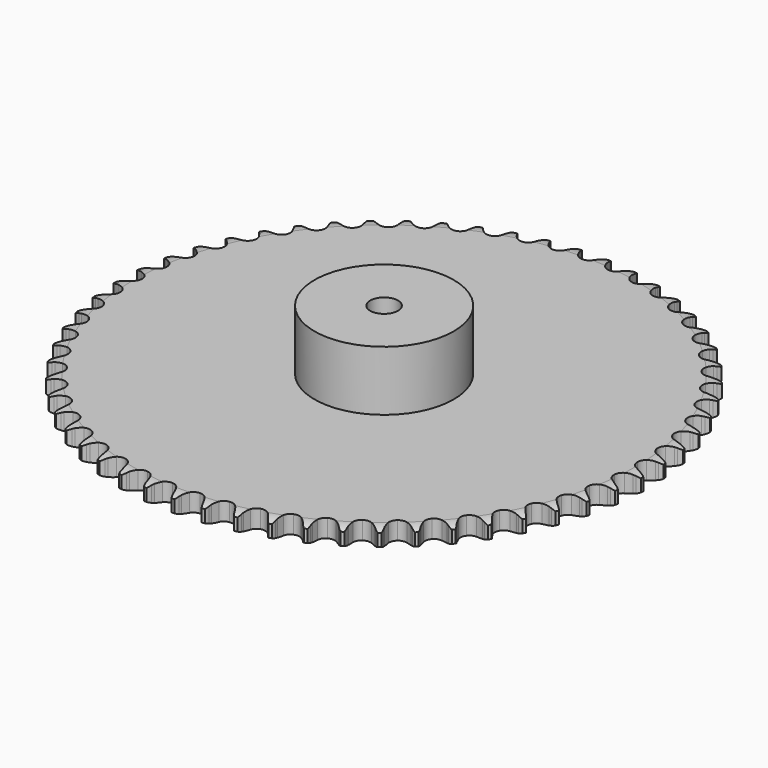
from build123d import *

# Parameters (mm, degrees)
PAD_DEPTH         = 16.2
SKETCH001_R       = 62.5
PAD001_DEPTH      = 70
SKETCH002_R       = 12.5
POCKET_DEPTH      = 0.0010001
POCKET_DEPTH_BACK = 70.001


with BuildPart() as part:
    # Sprocket → Pad (new body)
    with BuildSketch(Plane.XY):
        with BuildLine():
            ThreePointArc((-13.1521335506, 238.3862071548), (-11.3414048757, 236.1150787905), (-10.0888809211, 233.4944021366))
            Line((-10.0888809211, 233.4944021366), (-9.3178234902, 231.2595357237))
            ThreePointArc((-9.3178234902, 231.2595357237), (-8.1022430269, 228.4355614612), (-6.4822046209, 225.8225283461))
            ThreePointArc((-6.4822046209, 225.8225283461), (-3.6367234664, 223.3956462483), (0, 222.5234294484))
            ThreePointArc((0, 222.5234294484), (3.6367234664, 223.3956462483), (6.4822046209, 225.8225283461))
            ThreePointArc((6.4822046209, 225.8225283461), (8.1022430269, 228.4355614612), (9.3178234902, 231.2595357237))
            Line((9.3178234902, 231.2595357237), (10.0888809211, 233.4944021366))
            ThreePointArc((10.0888809211, 233.4944021366), (11.3414048757, 236.1150787905), (13.1521335506, 238.3862071548))
            ThreePointArc((13.1521335506, 238.3862071548), (14.7020295377, 235.9296679611), (15.6586555438, 233.1871091075))
            Line((15.6586555438, 233.1871091075), (16.1791795001, 230.8809841638))
            ThreePointArc((16.1791795001, 230.8809841638), (17.0767218286, 227.9404256681), (18.3994725744, 225.1650343511))
            ThreePointArc((18.3994725744, 225.1650343511), (20.9607066035, 222.4398554643), (24.4794066031, 221.1728629508))
            ThreePointArc((24.4794066031, 221.1728629508), (28.1900086397, 221.6397165067), (31.2851966331, 223.7388427542))
            Line((31.2851966331, 223.7388427542), (34.7017207256, 228.8309097924))
            ThreePointArc((34.7017207256, 228.8309097924), (35.1773428167, 229.913596992), (35.7139520384, 230.9673894236))
            ThreePointArc((35.7139520384, 230.9673894236), (37.2471699975, 233.4343724132), (39.2967515667, 235.4925215265))
            ThreePointArc((39.2967515667, 235.4925215265), (40.5670012285, 232.8803905616), (41.2161171423, 230.0492404575))
            Line((41.2161171423, 230.0492404575), (41.4797891682, 227.6998502158))
            ThreePointArc((41.4797891682, 227.6998502158), (42.0483984138, 224.6784018837), (43.0578050972, 221.7743418558))
            ThreePointArc((43.0578050972, 221.7743418558), (45.3037020892, 218.7839461599), (48.6616663708, 217.1375575056))
            ThreePointArc((48.6616663708, 217.1375575056), (52.4011052954, 217.1933808478), (55.7084287382, 218.9392706959))
            Line((55.7084287382, 218.9392706959), (59.6643860796, 223.6245865988))
            ThreePointArc((59.6643860796, 223.6245865988), (60.2562259595, 224.6483802803), (60.9055041574, 225.6367454797))
            ThreePointArc((60.9055041574, 225.6367454797), (62.7008049318, 227.9200889735), (64.9643602516, 229.7402756934))
            ThreePointArc((64.9643602516, 229.7402756934), (65.9395444779, 227.0042606887), (66.2732709114, 224.1188856613))
            Line((66.2732709114, 224.1188856613), (66.2768903859, 221.7547485366))
            ThreePointArc((66.2768903859, 221.7547485366), (66.5096644026, 218.6890866578), (67.1934741938, 215.6916092738))
            ThreePointArc((67.1934741938, 215.6916092738), (69.0967720017, 212.4722961217), (72.2532394275, 210.4664962547))
            ThreePointArc((72.2532394275, 210.4664962547), (75.9761235173, 210.1106117633), (79.4554359831, 211.4820724745))
            Line((79.4554359831, 211.4820724745), (83.9028066102, 215.7037638538))
            ThreePointArc((83.9028066102, 215.7037638538), (84.6036801443, 216.6562365488), (85.3577459606, 217.5671771014))
            ThreePointArc((85.3577459606, 217.5671771014), (87.3933370311, 219.6391644023), (89.8433896062, 221.1992941279))
            ThreePointArc((89.8433896062, 221.1992941279), (90.5116709814, 218.3726065992), (90.5259569478, 215.4680311927))
            Line((90.5259569478, 215.4680311927), (90.2694799352, 213.1178446071))
            ThreePointArc((90.2694799352, 213.1178446071), (90.1635931619, 210.045182164), (90.5135055363, 206.9906727388))
            ThreePointArc((90.5135055363, 206.9906727388), (92.051100703, 203.5815202312), (94.9677560344, 201.2406568446))
            ThreePointArc((94.9677560344, 201.2406568446), (98.6288945196, 200.4773844755), (102.2379618683, 201.4577683743))
            Line((102.2379618683, 201.4577683743), (107.1227607262, 205.1645896156))
            ThreePointArc((107.1227607262, 205.1645896156), (107.9241602595, 206.0341795959), (108.7738603566, 206.8566379174))
            ThreePointArc((108.7738603566, 206.8566379174), (111.0250324049, 208.6921179064), (113.6318419159, 209.9732527761))
            ThreePointArc((113.6318419159, 209.9732527761), (113.9851084096, 207.090204881), (113.6797804966, 204.2016867061))
            Line((113.6797804966, 204.2016867061), (113.1663202805, 201.8939787411))
            ThreePointArc((113.1663202805, 201.8939787411), (112.7230580391, 198.8516136934), (112.7348255345, 195.7771498338))
            ThreePointArc((112.7348255345, 195.7771498338), (113.8880537375, 192.2195404639), (116.5294927298, 189.5720284684))
            ThreePointArc((116.5294927298, 189.5720284684), (120.0844443486, 188.4106333139), (123.7794573917, 188.9880398681))
            Line((123.7794573917, 188.9880398681), (129.0423896394, 192.1349951828))
            ThreePointArc((129.0423896394, 192.1349951828), (129.934587267, 192.9111468039), (130.8696074368, 193.6351393644))
            ThreePointArc((130.8696074368, 193.6351393644), (133.3090342838, 195.211831801), (136.0409575946, 196.198420573))
            ThreePointArc((136.0409575946, 196.198420573), (136.0749210299, 193.2940086073), (135.4536855048, 190.4566103618))
            Line((135.4536855048, 190.4566103618), (134.6894747967, 188.2193934661))
            ThreePointArc((134.6894747967, 188.2193934661), (133.9142176904, 185.2442560042), (133.5876974654, 182.1871575366))
            ThreePointArc((133.5876974654, 182.1871575366), (134.3425600765, 178.5242758629), (136.6767192385, 175.6022524675))
            ThreePointArc((136.6767192385, 175.6022524675), (140.082331694, 174.0568322918), (143.8184379784, 174.2242525678))
            Line((143.8184379784, 174.2242525678), (149.3956187477, 176.7731421815))
            ThreePointArc((149.3956187477, 176.7731421815), (150.3677843991, 177.4464340142), (151.3767747635, 178.0631725247))
            ThreePointArc((151.3767747635, 178.0631725247), (153.9748450717, 179.3619384984), (156.7987203341, 180.0420053215))
            ThreePointArc((156.7987203341, 180.0420053215), (156.512968441, 177.1514849122), (155.5833662615, 174.3996487671))
            Line((155.5833662615, 174.3996487671), (154.5776815441, 172.2600797231))
            ThreePointArc((154.5776815441, 172.2600797231), (153.4798401439, 169.3882839856), (152.8189957116, 166.3856599441))
            ThreePointArc((152.8189957116, 166.3856599441), (153.1663297214, 162.6619683883), (155.1648755228, 159.5009029989))
            ThreePointArc((155.1648755228, 159.5009029989), (158.3798092932, 157.5902171092), (162.1116575497, 157.3456188518))
            Line((162.1116575497, 157.3456188518), (167.9353874212, 159.2655026973))
            ThreePointArc((167.9353874212, 159.2655026973), (168.9757203223, 159.8277618908), (170.0464331049, 160.3297599813))
            ThreePointArc((170.0464331049, 160.3297599813), (172.7716098203, 161.3348342326), (175.6531590139, 161.7001240168))
            ThreePointArc((175.6531590139, 161.7001240168), (175.0511604332, 158.8585821659), (173.8244757106, 156.2257116844))
            Line((173.8244757106, 156.2257116844), (172.589524634, 154.209761962))
            ThreePointArc((172.589524634, 154.209761962), (171.1824252473, 151.4761676588), (170.1952783641, 148.5644658319))
            ThreePointArc((170.1952783641, 148.5644658319), (170.1308676081, 144.8251649652), (171.7695404102, 141.4634286335))
            ThreePointArc((171.7695404102, 141.4634286335), (174.7547705545, 139.2106701683), (178.4370612006, 138.5570224689))
            Line((178.4370612006, 138.5570224689), (184.4366479827, 139.8245957572))
            ThreePointArc((184.4366479827, 139.8245957572), (185.5325199013, 140.2689972465), (186.6519580994, 140.6501613402))
            ThreePointArc((186.6519580994, 140.6501613402), (189.4711612684, 141.3493436292), (192.3754062893, 141.3954222513))
            ThreePointArc((192.3754062893, 141.3954222513), (191.4644684684, 138.6373514277), (189.9555914934, 136.1554060908))
            Line((189.9555914934, 136.1554060908), (188.5063646908, 134.2875465887))
            ThreePointArc((188.5063646908, 134.2875465887), (186.8070875982, 131.7253358517), (185.5056208899, 128.9399003552))
            ThreePointArc((185.5056208899, 128.9399003552), (185.0302472274, 125.2303802248), (186.2891557622, 121.7087798759))
            ThreePointArc((186.2891557622, 121.7087798759), (189.0084456304, 119.1412942713), (192.5964806458, 118.0865315276))
            Line((192.5964806458, 118.0865315276), (198.6990974821, 118.686407636))
            ThreePointArc((198.6990974821, 118.686407636), (199.8372060177, 119.007556989), (200.991781168, 119.2632602702))
            ThreePointArc((200.991781168, 119.2632602702), (203.870789483, 119.648063471), (206.762476731, 119.374371599))
            ThreePointArc((206.762476731, 119.374371599), (205.553657221, 116.7332510464), (203.7809037161, 114.4323583083))
            Line((203.7809037161, 114.4323583083), (202.1349928377, 112.7352623106))
            ThreePointArc((202.1349928377, 112.7352623106), (200.1641649611, 110.3755369073), (198.5641764706, 107.7501791549))
            ThreePointArc((198.5641764706, 107.7501791549), (197.6836102939, 104.1154683101), (198.5474731172, 100.4767514017))
            ThreePointArc((198.5474731172, 100.4767514017), (200.967814214, 97.625704455), (204.418039714, 96.1826300578))
            Line((204.418039714, 96.1826300578), (210.5496091031, 96.1075273029))
            ThreePointArc((210.5496091031, 96.1075273029), (211.7161391597, 96.3015262016), (212.8918362839, 96.4286647788))
            ThreePointArc((212.8918362839, 96.4286647788), (215.795702484, 96.4944179018), (218.6397307931, 95.9042777843))
            ThreePointArc((218.6397307931, 95.9042777843), (217.1477030253, 93.4121671283), (215.1325918167, 91.3202567101))
            Line((215.1325918167, 91.3202567101), (213.309975991, 89.8145246632))
            ThreePointArc((213.309975991, 89.8145246632), (211.0915205111, 87.6859284635), (209.2124319311, 85.2525167419))
            ThreePointArc((209.2124319311, 85.2525167419), (207.9373621209, 81.7367356486), (208.3956931081, 78.0250712749))
            ThreePointArc((208.3956931081, 78.0250712749), (210.4877057712, 74.9250708338), (213.7582406921, 73.1112017515))
            Line((213.7582406921, 73.1112017515), (219.8443336876, 72.3620317791))
            ThreePointArc((219.8443336876, 72.3620317791), (221.0251251706, 72.4265253396), (222.2076728983, 72.4235559227))
            ThreePointArc((222.2076728983, 72.4235559227), (225.1011479815, 72.1694608141), (227.8629947006, 71.2700359526))
            ThreePointArc((227.8629947006, 71.2700359526), (226.105869871, 68.9571860408), (223.8728616789, 67.0996509011))
            Line((223.8728616789, 67.0996509011), (221.895664993, 65.8035603525))
            ThreePointArc((221.895664993, 65.8035603525), (219.4565109541, 63.9319316306), (217.3211318747, 61.7200042617))
            ThreePointArc((217.3211318747, 61.7200042617), (215.6670360511, 58.3658297398), (215.714271685, 54.6262724784))
            ThreePointArc((215.714271685, 54.6262724784), (217.4525617146, 51.314948349), (220.5037061929, 49.1523024951))
            Line((220.5037061929, 49.1523024951), (226.4704458702, 47.7381592137))
            ThreePointArc((226.4704458702, 47.7381592137), (227.6511655705, 47.6723645716), (228.8262093741, 47.5393232052))
            ThreePointArc((228.8262093741, 47.5393232052), (231.6741704725, 46.9684642355), (234.3203105238, 45.7706724295))
            ThreePointArc((234.3203105238, 45.7706724295), (232.3194177475, 43.6651581267), (229.8956182666, 42.0645462258))
            Line((229.8956182666, 42.0645462258), (227.7878412099, 40.9938299589))
            ThreePointArc((227.7878412099, 40.9938299589), (225.1575966378, 39.4018877522), (222.7918476683, 37.438294538))
            ThreePointArc((222.7918476683, 37.438294538), (220.7788043139, 34.2864417225), (220.4143712179, 30.5643847327))
            ThreePointArc((220.4143712179, 30.5643847327), (221.7778381277, 27.0819319042), (224.5725554026, 24.5967608698))
            Line((224.5725554026, 24.5967608698), (230.3475136249, 22.5348100633))
            ThreePointArc((230.3475136249, 22.5348100633), (231.5138292048, 22.3395258764), (232.6671056444, 22.0780275025))
            ThreePointArc((232.6671056444, 22.0780275025), (235.4349823682, 21.1973341262), (237.9332951959, 19.7157149456))
            ThreePointArc((237.9332951959, 19.7157149456), (235.7129226009, 17.8430943433), (233.1277534734, 16.5188349414))
            Line((233.1277534734, 16.5188349414), (230.914981604, 15.6864900013))
            ThreePointArc((230.914981604, 15.6864900013), (228.125574105, 14.3935583317), (225.558172233, 12.7021346338))
            ThreePointArc((225.558172233, 12.7021346338), (223.2106169673, 9.7908627483), (222.4389388655, 6.13148676))
            ThreePointArc((222.4389388655, 6.13148676), (223.4110320143, 2.5201774923), (225.9153980039, -0.2573521128))
            Line((225.9153980039, -0.2573521128), (231.4284746012, -2.9420811548))
            ThreePointArc((231.4284746012, -2.9420811548), (232.5662285695, -3.2644844011), (233.6837384314, -3.6512655464))
            ThreePointArc((233.6837384314, -3.6512655464), (236.3379325066, -4.8311029047), (238.6580919774, -6.57856461))
            ThreePointArc((238.6580919774, -6.57856461), (236.245191879, -8.1955604346), (233.5300335562, -9.2273926221))
            Line((233.5300335562, -9.2273926221), (231.2391269272, -9.8112626954))
            ThreePointArc((231.2391269272, -9.8112626954), (228.3244161295, -10.7894893889), (225.586526136, -12.1882119781))
            ThreePointArc((225.586526136, -12.1882119781), (222.9329550998, -14.8235640366), (221.7633991189, -18.3758391561))
            ThreePointArc((221.7633991189, -18.3758391561), (222.3323186128, -22.0721684605), (224.5159337064, -25.1083411894))
            Line((224.5159337064, -25.1083411894), (229.7002073971, -28.3832594932))
            ThreePointArc((229.7002073971, -28.3832594932), (230.795588962, -28.8288682601), (231.8637671902, -29.3362371776))
            ThreePointArc((231.8637671902, -29.3362371776), (234.3720602963, -30.8008968907), (236.485902817, -32.7929893029))
            ThreePointArc((236.485902817, -32.7929893029), (233.909764554, -34.1347322108), (231.0975753798, -34.861612139))
            Line((231.0975753798, -34.861612139), (228.7563424944, -35.1899199537))
            ThreePointArc((228.7563424944, -35.1899199537), (225.7517090388, -35.8415673241), (222.8765651994, -36.9306102071))
            ThreePointArc((222.8765651994, -36.9306102071), (219.9491891504, -39.2580528347), (218.3959521158, -42.6601072774))
            ThreePointArc((218.3959521158, -42.6601072774), (218.5547920426, -46.3965881879), (220.3911501111, -49.6545490166))
            Line((220.3911501111, -49.6545490166), (225.1836908354, -53.4799035103))
            ThreePointArc((225.1836908354, -53.4799035103), (226.2234035484, -54.0433087111), (227.2292839062, -54.6651066295))
            ThreePointArc((227.2292839062, -54.6651066295), (229.5612287627, -56.3968097125), (231.4430951488, -58.6093515282))
            ThreePointArc((231.4430951488, -58.6093515282), (228.7349895498, -59.659554578), (225.8599056914, -60.0726589093))
            Line((225.8599056914, -60.0726589093), (223.4967659452, -60.1414192532))
            ThreePointArc((223.4967659452, -60.1414192532), (220.4386820116, -60.4585771843), (217.4611846778, -61.2247208558))
            ThreePointArc((217.4611846778, -61.2247208558), (214.2955379957, -63.2160020517), (212.3774741009, -66.4265394852))
            ThreePointArc((212.3774741009, -66.4265394852), (212.1243063593, -70.1578161852), (213.5911165033, -73.5980178825))
            Line((213.5911165033, -73.5980178825), (217.9337493089, -77.9273739446))
            ThreePointArc((217.9337493089, -77.9273739446), (218.9051724661, -78.6017366033), (219.8365449286, -79.3304157382))
            ThreePointArc((219.8365449286, -79.3304157382), (221.9638348838, -81.3081416615), (223.5908818266, -83.7142756203))
            ThreePointArc((223.5908818266, -83.7142756203), (220.7836816251, -84.4601907697), (217.8806027058, -84.554504977))
            Line((217.8806027058, -84.554504977), (215.5242414142, -84.3628831928))
            ThreePointArc((215.5242414142, -84.3628831928), (212.449827999, -84.3417018169), (209.406119955, -84.7756463305))
            ThreePointArc((209.406119955, -84.7756463305), (206.0406293023, -86.4065946384), (203.7810212447, -89.3866434875))
            ThreePointArc((203.7810212447, -89.3866434875), (203.1189189479, -93.0674233323), (204.1983760793, -96.6481065099))
            Line((204.1983760793, -96.6481065099), (208.0383872867, -101.4289116224))
            ThreePointArc((208.0383872867, -101.4289116224), (208.9297291268, -102.2060458898), (209.7752880941, -103.0327610637))
            ThreePointArc((209.7752880941, -103.0327610637), (211.6721007297, -105.2325029137), (213.0245780832, -107.8030218087))
            ThreePointArc((213.0245780832, -107.8030218087), (210.152358887, -108.2355946582), (207.2565243523, -108.0099738949))
            Line((207.2565243523, -108.0099738949), (204.9355445492, -107.5602960114))
            ThreePointArc((204.9355445492, -107.5602960114), (201.8821208666, -107.2010324417), (198.8091486049, -107.2975102988))
            ThreePointArc((198.8091486049, -107.2975102988), (195.2846664791, -108.5483282158), (192.7109428395, -111.2617147242))
            ThreePointArc((192.7109428395, -111.2617147242), (191.6479430127, -114.8473180326), (192.3269439841, -118.5250180472))
            Line((192.3269439841, -118.5250180472), (195.617721059, -123.6992397124))
            ThreePointArc((195.617721059, -123.6992397124), (196.4181618997, -124.5697122313), (197.1676434312, -125.4844282417))
            ThreePointArc((197.1676434312, -125.4844282417), (198.8109540112, -127.8794841322), (199.8724445326, -130.5831853462))
            ThreePointArc((199.8724445326, -130.5831853462), (196.9700711919, -130.6971650474), (194.1166325502, -130.1543480438))
            Line((194.1166325502, -130.1543480438), (191.8592077865, -129.4520725414))
            ThreePointArc((191.8592077865, -129.4520725414), (188.8638382637, -128.759087751), (185.7989035048, -128.5169278412))
            ThreePointArc((185.7989035048, -128.5169278412), (182.1582123445, -129.372432132), (179.3016146415, -131.7862194633))
            ThreePointArc((179.3016146415, -131.7862194633), (177.8506206625, -135.2331218683), (178.1209233219, -138.9631964237))
            Line((178.1209233219, -138.9631964237), (180.8225206885, -144.4680265996))
            ThreePointArc((180.8225206885, -144.4680265996), (181.5223442622, -145.4212710129), (182.1666506674, -146.4128844466))
            ThreePointArc((182.1666506674, -146.4128844466), (183.5365116276, -148.9741816435), (184.2941302599, -151.7782459062))
            ThreePointArc((184.2941302599, -151.7782459062), (181.3968336553, -151.5722489), (178.6204277864, -150.7188247193))
            Line((178.6204277864, -150.7188247193), (176.4539601407, -149.7724762712))
            ThreePointArc((176.4539601407, -149.7724762712), (173.553004506, -148.7541821567), (170.5333114061, -148.1763239733))
            ThreePointArc((170.5333114061, -148.1763239733), (166.82060427, -148.6261299747), (163.7158077302, -150.7110180204))
            ThreePointArc((163.7158077302, -150.7110180204), (161.8944327003, -153.9773787961), (161.7527559396, -157.7145498402))
            Line((161.7527559396, -157.7145498402), (163.8323798655, -163.4831673456))
            ThreePointArc((163.8323798655, -163.4831673456), (164.4230912621, -164.5076125572), (164.954401534, -165.5640865704))
            ThreePointArc((164.954401534, -165.5640865704), (166.0341846179, -168.2605343954), (166.4787348972, -171.1309241652))
            ThreePointArc((166.4787348972, -171.1309241652), (163.6216842848, -170.6074509762), (160.9560129948, -169.4537790318))
            Line((160.9560129948, -169.4537790318), (158.9068004496, -168.2748450263))
            ThreePointArc((158.9068004496, -168.2748450263), (156.1354723748, -166.9436022987), (153.1976759174, -166.0370602572))
            ThreePointArc((153.1976759174, -166.0370602572), (149.458020041, -166.0757079338), (146.1427126883, -167.8063889773))
            ThreePointArc((146.1427126883, -167.8063889773), (143.9730656331, -170.8525589287), (143.4211292163, -174.5514622673))
            Line((143.4211292163, -174.5514622673), (144.8535358842, -180.5138439001))
            ThreePointArc((144.8535358842, -180.5138439001), (145.3279646674, -181.5970545331), (145.7398294192, -182.7055649624))
            ThreePointArc((145.7398294192, -182.7055649624), (146.5164275229, -185.5044321916), (146.6425132109, -188.406304825))
            ThreePointArc((146.6425132109, -188.406304825), (143.8603893148, -187.5717097085), (141.3378102424, -186.131794015))
            Line((141.3378102424, -186.131794015), (139.4307274619, -184.7345851139))
            ThreePointArc((139.4307274619, -184.7345851139), (136.8226671156, -183.1065532567), (134.0024281701, -181.8823315495))
            ThreePointArc((134.0024281701, -181.8823315495), (130.2812179098, -181.5093517707), (126.7956430845, -182.8648176885))
            ThreePointArc((126.7956430845, -182.8648176885), (124.3040605802, -185.6538204389), (123.3485642677, -189.2695563963))
            Line((123.3485642677, -189.2695563963), (124.116366201, -195.3533269202))
            ThreePointArc((124.116366201, -195.3533269202), (124.4687534482, -196.4821542647), (124.7561731996, -197.6292452952))
            ThreePointArc((124.7561731996, -197.6292452952), (125.2201594741, -200.4965574718), (125.0262500614, -203.3946881661))
            ThreePointArc((125.0262500614, -203.3946881661), (122.3528240971, -202.2591019763), (120.0039579348, -200.5504211597))
            Line((120.0039579348, -200.5504211597), (118.2621543207, -198.9518975863))
            ThreePointArc((118.2621543207, -198.9518975863), (115.8490200225, -197.0468387008), (113.1805724693, -195.519797721))
            ThreePointArc((113.1805724693, -195.519797721), (109.5229782768, -194.7397179562), (105.9094461356, -195.7035152283))
            ThreePointArc((105.9094461356, -195.7035152283), (103.1261726187, -198.2014960622), (101.7787148413, -201.6901745019))
            Line((101.7787148413, -201.6901745019), (101.8725919647, -207.8214851842))
            ThreePointArc((101.8725919647, -207.8214851842), (102.0986601719, -208.9822268054), (102.2581460365, -210.1539743058))
            ThreePointArc((102.2581460365, -210.1539743058), (102.4038883171, -213.0549261443), (101.8923376013, -215.9141355186))
            ThreePointArc((101.8923376013, -215.9141355186), (99.3600613383, -214.4913427335), (97.2134201396, -212.5346378643))
            Line((97.2134201396, -212.5346378643), (95.6580388282, -210.7542035294))
            ThreePointArc((95.6580388282, -210.7542035294), (93.4691227596, -208.5952424499), (90.9848579373, -206.7839184064))
            ThreePointArc((90.9848579373, -206.7839184064), (87.4352780513, -205.6062077671), (83.7376519794, -206.1666372002))
            ThreePointArc((83.7376519794, -206.1666372002), (80.6964726199, -208.3432740143), (78.9734096899, -211.6625471058))
            Line((78.9734096899, -211.6625471058), (78.3922224621, -217.7669721404))
            ThreePointArc((78.3922224621, -217.7669721404), (78.4892274677, -218.9455382075), (78.5188435031, -220.1277187505))
            ThreePointArc((78.5188435031, -220.1277187505), (78.3445726758, -223.0270966251), (77.5215901897, -225.812677751))
            ThreePointArc((77.5215901897, -225.812677751), (75.1612020316, -224.1199491477), (73.2428431126, -221.9389719723))
            Line((73.2428431126, -221.9389719723), (71.8927643261, -219.9982389368))
            ThreePointArc((71.8927643261, -219.9982389368), (69.954636963, -217.6115825262), (67.6847104812, -215.5379624392))
            ThreePointArc((67.6847104812, -215.5379624392), (64.2862319932, -213.9769167373), (60.5493961622, -214.1271754773))
            ThreePointArc((60.5493961622, -214.1271754773), (57.2872267579, -215.956046849), (55.209474325, -219.0656231135))
            Line((55.209474325, -219.0656231135), (53.9602775718, -225.0690630498))
            ThreePointArc((53.9602775718, -225.0690630498), (53.9270418663, -226.2511473673), (53.8264285741, -227.4294108824))
            ThreePointArc((53.8264285741, -227.4294108824), (53.3342600506, -230.2920202735), (52.2098356867, -232.9701599694))
            ThreePointArc((52.2098356867, -232.9701599694), (50.0499875483, -231.0280429801), (48.3831971877, -228.6492676071))
            Line((48.3831971877, -228.6492676071), (47.2548090536, -226.5717937411))
            ThreePointArc((47.2548090536, -226.5717937411), (45.5909966368, -223.986412775), (43.562962328, -221.6756675834))
            ThreePointArc((43.562962328, -221.6756675834), (40.3568381631, -219.7502357991), (36.6261526979, -219.4884999084))
            ThreePointArc((36.6261526979, -219.4884999084), (33.1825915663, -220.9474058169), (30.7753707305, -223.8095392108))
            Line((30.7753707305, -223.8095392108), (28.8733280083, -229.6391204204))
            ThreePointArc((28.8733280083, -229.6391204204), (28.7102550282, -230.8103740859), (28.4806337173, -231.9704180503))
            ThreePointArc((28.4806337173, -231.9704180503), (27.676541757, -234.7615107575), (26.2643245038, -237.2997000356))
            ThreePointArc((26.2643245038, -237.2997000356), (24.3312340156, -235.1317693296), (22.9362447905, -232.5840708696))
            Line((22.9362447905, -232.5840708696), (22.0432444123, -230.3950738916))
            ThreePointArc((22.0432444123, -230.3950738916), (20.6739433706, -227.6423513929), (18.9124188242, -225.122530413))
            ThreePointArc((18.9124188242, -225.122530413), (15.9375669866, -222.8560846798), (12.258317355, -222.1855312776))
            ThreePointArc((12.258317355, -222.1855312776), (8.6751646635, -223.2567625814), (5.9676958248, -225.8367106825))
            Line((5.9676958248, -225.8367106825), (3.4358953556, -231.4216699466))
            ThreePointArc((3.4358953556, -231.4216699466), (3.144964586, -232.5678755271), (2.7891225481, -233.6956185784))
            ThreePointArc((2.7891225481, -233.6956185784), (1.682867738, -236.3813145174), (0, -238.748743198))
            ThreePointArc((0, -238.748743198), (-1.682867738, -236.3813145174), (-2.7891225481, -233.6956185784))
            Line((-2.7891225481, -233.6956185784), (-3.4358953556, -231.4216699466))
            ThreePointArc((-3.4358953556, -231.4216699466), (-4.4940635625, -228.5350202373), (-5.9676958248, -225.8367106825))
            ThreePointArc((-5.9676958248, -225.8367106825), (-8.6751646635, -223.2567625814), (-12.258317355, -222.1855312776))
            ThreePointArc((-12.258317355, -222.1855312776), (-15.9375669866, -222.8560846798), (-18.9124188242, -225.122530413))
            Line((-18.9124188242, -225.122530413), (-22.0432444123, -230.3950738916))
            ThreePointArc((-22.0432444123, -230.3950738916), (-22.458501466, -231.5023180043), (-22.9362447905, -232.5840708696))
            ThreePointArc((-22.9362447905, -232.5840708696), (-24.3312340156, -235.1317693296), (-26.2643245038, -237.2997000356))
            ThreePointArc((-26.2643245038, -237.2997000356), (-27.676541757, -234.7615107575), (-28.4806337173, -231.9704180503))
            Line((-28.4806337173, -231.9704180503), (-28.8733280083, -229.6391204204))
            ThreePointArc((-28.8733280083, -229.6391204204), (-29.6075186517, -226.6535835178), (-30.7753707305, -223.8095392108))
            ThreePointArc((-30.7753707305, -223.8095392108), (-33.1825915663, -220.9474058169), (-36.6261526979, -219.4884999084))
            ThreePointArc((-36.6261526979, -219.4884999084), (-40.3568381631, -219.7502357991), (-43.562962328, -221.6756675834))
            Line((-43.562962328, -221.6756675834), (-47.2548090536, -226.5717937411))
            ThreePointArc((-47.2548090536, -226.5717937411), (-47.7893517333, -227.6266359422), (-48.3831971877, -228.6492676071))
            ThreePointArc((-48.3831971877, -228.6492676071), (-50.0499875483, -231.0280429801), (-52.2098356867, -232.9701599694))
            ThreePointArc((-52.2098356867, -232.9701599694), (-53.3342600506, -230.2920202735), (-53.8264285741, -227.4294108824))
            Line((-53.8264285741, -227.4294108824), (-53.9602775718, -225.0690630498))
            ThreePointArc((-53.9602775718, -225.0690630498), (-54.361578572, -222.0208793274), (-55.209474325, -219.0656231135))
            ThreePointArc((-55.209474325, -219.0656231135), (-57.2872267579, -215.956046849), (-60.5493961622, -214.1271754773))
            ThreePointArc((-60.5493961622, -214.1271754773), (-64.2862319932, -213.9769167373), (-67.6847104812, -215.5379624392))
            Line((-67.6847104812, -215.5379624392), (-71.8927643261, -219.9982389368))
            ThreePointArc((-71.8927643261, -219.9982389368), (-72.5401040078, -220.987874871), (-73.2428431126, -221.9389719723))
            ThreePointArc((-73.2428431126, -221.9389719723), (-75.1612020316, -224.1199491477), (-77.5215901897, -225.812677751))
            ThreePointArc((-77.5215901897, -225.812677751), (-78.3445726758, -223.0270966251), (-78.5188435031, -220.1277187505))
            Line((-78.5188435031, -220.1277187505), (-78.3922224621, -217.7669721404))
            ThreePointArc((-78.3922224621, -217.7669721404), (-78.4557625684, -214.6931424195), (-78.9734096899, -211.6625471058))
            ThreePointArc((-78.9734096899, -211.6625471058), (-80.6964726199, -208.3432740143), (-83.7376519794, -206.1666372002))
            ThreePointArc((-83.7376519794, -206.1666372002), (-87.4352780513, -205.6062077671), (-90.9848579373, -206.7839184064))
            Line((-90.9848579373, -206.7839184064), (-95.6580388282, -210.7542035294))
            ThreePointArc((-95.6580388282, -210.7542035294), (-96.410317685, -211.666620357), (-97.2134201396, -212.5346378643))
            ThreePointArc((-97.2134201396, -212.5346378643), (-99.3600613383, -214.4913427335), (-101.8923376013, -215.9141355186))
            ThreePointArc((-101.8923376013, -215.9141355186), (-102.4038883171, -213.0549261443), (-102.2581460365, -210.1539743058))
            Line((-102.2581460365, -210.1539743058), (-101.8725919647, -207.8214851842))
            ThreePointArc((-101.8725919647, -207.8214851842), (-101.5975998864, -204.7593215937), (-101.7787148413, -201.6901745019))
            ThreePointArc((-101.7787148413, -201.6901745019), (-103.1261726187, -198.2014960622), (-105.9094461356, -195.7035152283))
            ThreePointArc((-105.9094461356, -195.7035152283), (-109.5229782768, -194.7397179562), (-113.1805724693, -195.519797721))
            Line((-113.1805724693, -195.519797721), (-118.2621543207, -198.9518975863))
            ThreePointArc((-118.2621543207, -198.9518975863), (-119.1102407064, -199.776019803), (-120.0039579348, -200.5504211597))
            ThreePointArc((-120.0039579348, -200.5504211597), (-122.3528240971, -202.2591019763), (-125.0262500614, -203.3946881661))
            ThreePointArc((-125.0262500614, -203.3946881661), (-125.2201594741, -200.4965574718), (-124.7561731996, -197.6292452952))
            Line((-124.7561731996, -197.6292452952), (-124.116366201, -195.3533269202))
            ThreePointArc((-124.116366201, -195.3533269202), (-123.5061799694, -192.339999978), (-123.3485642677, -189.2695563963))
            ThreePointArc((-123.3485642677, -189.2695563963), (-124.3040605802, -185.6538204389), (-126.7956430845, -182.8648176885))
            ThreePointArc((-126.7956430845, -182.8648176885), (-130.2812179098, -181.5093517707), (-134.0024281701, -181.8823315495))
            Line((-134.0024281701, -181.8823315495), (-139.4307274619, -184.7345851139))
            ThreePointArc((-139.4307274619, -184.7345851139), (-140.3643267566, -185.4604089924), (-141.3378102424, -186.131794015))
            ThreePointArc((-141.3378102424, -186.131794015), (-143.8603893148, -187.5717097085), (-146.6425132109, -188.406304825))
            ThreePointArc((-146.6425132109, -188.406304825), (-146.5164275229, -185.5044321916), (-145.7398294192, -182.7055649624))
            Line((-145.7398294192, -182.7055649624), (-144.8535358842, -180.5138439001))
            ThreePointArc((-144.8535358842, -180.5138439001), (-143.9155623335, -177.5859313133), (-143.4211292163, -174.5514622673))
            ThreePointArc((-143.4211292163, -174.5514622673), (-143.9730656331, -170.8525589287), (-146.1427126883, -167.8063889773))
            ThreePointArc((-146.1427126883, -167.8063889773), (-149.458020041, -166.0757079338), (-153.1976759174, -166.0370602572))
            Line((-153.1976759174, -166.0370602572), (-158.9068004496, -168.2748450263))
            ThreePointArc((-158.9068004496, -168.2748450263), (-159.9145800225, -168.893560048), (-160.9560129948, -169.4537790318))
            ThreePointArc((-160.9560129948, -169.4537790318), (-163.6216842848, -170.6074509762), (-166.4787348972, -171.1309241652))
            ThreePointArc((-166.4787348972, -171.1309241652), (-166.0341846179, -168.2605343954), (-164.954401534, -165.5640865704))
            Line((-164.954401534, -165.5640865704), (-163.8323798655, -163.4831673456))
            ThreePointArc((-163.8323798655, -163.4831673456), (-162.5780047241, -160.6762100066), (-161.7527559396, -157.7145498402))
            ThreePointArc((-161.7527559396, -157.7145498402), (-161.8944327003, -153.9773787961), (-163.7158077302, -150.7110180204))
            ThreePointArc((-163.7158077302, -150.7110180204), (-166.82060427, -148.6261299747), (-170.5333114061, -148.1763239733))
            Line((-170.5333114061, -148.1763239733), (-176.4539601407, -149.7724762712))
            ThreePointArc((-176.4539601407, -149.7724762712), (-177.523686913, -150.2765720738), (-178.6204277864, -150.7188247193))
            ThreePointArc((-178.6204277864, -150.7188247193), (-181.3968336553, -151.5722489), (-184.2941302599, -151.7782459062))
            ThreePointArc((-184.2941302599, -151.7782459062), (-183.5365116276, -148.9741816435), (-182.1666506674, -146.4128844466))
            Line((-182.1666506674, -146.4128844466), (-180.8225206885, -144.4680265996))
            ThreePointArc((-180.8225206885, -144.4680265996), (-179.2669703713, -141.8160971683), (-178.1209233219, -138.9631964237))
            ThreePointArc((-178.1209233219, -138.9631964237), (-177.8506206625, -135.2331218683), (-179.3016146415, -131.7862194633))
            ThreePointArc((-179.3016146415, -131.7862194633), (-182.1582123445, -129.372432132), (-185.7989035048, -128.5169278412))
            Line((-185.7989035048, -128.5169278412), (-191.8592077865, -129.4520725414))
            ThreePointArc((-191.8592077865, -129.4520725414), (-192.9778967244, -129.8354300847), (-194.1166325502, -130.1543480438))
            ThreePointArc((-194.1166325502, -130.1543480438), (-196.9700711919, -130.6971650474), (-199.8724445326, -130.5831853462))
            ThreePointArc((-199.8724445326, -130.5831853462), (-198.8109540112, -127.8794841322), (-197.1676434312, -125.4844282417))
            Line((-197.1676434312, -125.4844282417), (-195.617721059, -123.6992397124))
            ThreePointArc((-195.617721059, -123.6992397124), (-193.7798778397, -121.2345290196), (-192.3269439841, -118.5250180472))
            ThreePointArc((-192.3269439841, -118.5250180472), (-191.6479430127, -114.8473180326), (-192.7109428395, -111.2617147242))
            ThreePointArc((-192.7109428395, -111.2617147242), (-195.2846664791, -108.5483282158), (-198.8091486049, -107.2975102988))
            Line((-198.8091486049, -107.2975102988), (-204.9355445492, -107.5602960114))
            ThreePointArc((-204.9355445492, -107.5602960114), (-206.0896162843, -107.8182618541), (-207.2565243523, -108.0099738949))
            ThreePointArc((-207.2565243523, -108.0099738949), (-210.152358887, -108.2355946582), (-213.0245780832, -107.8030218087))
            ThreePointArc((-213.0245780832, -107.8030218087), (-211.6721007297, -105.2325029137), (-209.7752880941, -103.0327610637))
            Line((-209.7752880941, -103.0327610637), (-208.0383872867, -101.4289116224))
            ThreePointArc((-208.0383872867, -101.4289116224), (-205.9405600923, -99.1813379171), (-204.1983760793, -96.6481065099))
            ThreePointArc((-204.1983760793, -96.6481065099), (-203.1189189479, -93.0674233323), (-203.7810212447, -89.3866434875))
            ThreePointArc((-203.7810212447, -89.3866434875), (-206.0406293023, -86.4065946384), (-209.406119955, -84.7756463305))
            Line((-209.406119955, -84.7756463305), (-215.5242414142, -84.3628831928))
            ThreePointArc((-215.5242414142, -84.3628831928), (-216.6996870789, -84.4923259791), (-217.8806027058, -84.554504977))
            ThreePointArc((-217.8806027058, -84.554504977), (-220.7836816251, -84.4601907697), (-223.5908818266, -83.7142756203))
            ThreePointArc((-223.5908818266, -83.7142756203), (-221.9638348838, -81.3081416615), (-219.8365449286, -79.3304157382))
            Line((-219.8365449286, -79.3304157382), (-217.9337493089, -77.9273739446))
            ThreePointArc((-217.9337493089, -77.9273739446), (-215.6014029199, -75.924219727), (-213.5911165033, -73.5980178825))
            ThreePointArc((-213.5911165033, -73.5980178825), (-212.1243063593, -70.1578161852), (-212.3774741009, -66.4265394852))
            ThreePointArc((-212.3774741009, -66.4265394852), (-214.2955379957, -63.2160020517), (-217.4611846778, -61.2247208558))
            Line((-217.4611846778, -61.2247208558), (-223.4967659452, -60.1414192532))
            ThreePointArc((-223.4967659452, -60.1414192532), (-224.6793172215, -60.1407677231), (-225.8599056914, -60.0726589093))
            ThreePointArc((-225.8599056914, -60.0726589093), (-228.7349895498, -59.659554578), (-231.4430951488, -58.6093515282))
            ThreePointArc((-231.4430951488, -58.6093515282), (-229.5612287627, -56.3968097125), (-227.2292839062, -54.6651066295))
            Line((-227.2292839062, -54.6651066295), (-225.1836908354, -53.4799035103))
            ThreePointArc((-225.1836908354, -53.4799035103), (-222.6451367774, -51.745484359), (-220.3911501111, -49.6545490166))
            ThreePointArc((-220.3911501111, -49.6545490166), (-218.5547920426, -46.3965881879), (-218.3959521158, -42.6601072774))
            ThreePointArc((-218.3959521158, -42.6601072774), (-219.9491891504, -39.2580528347), (-222.8765651994, -36.9306102071))
            Line((-222.8765651994, -36.9306102071), (-228.7563424944, -35.1899199537))
            ThreePointArc((-228.7563424944, -35.1899199537), (-229.9316448118, -35.0591820157), (-231.0975753798, -34.861612139))
            ThreePointArc((-231.0975753798, -34.861612139), (-233.909764554, -34.1347322108), (-236.485902817, -32.7929893029))
            ThreePointArc((-236.485902817, -32.7929893029), (-234.3720602963, -30.8008968907), (-231.8637671902, -29.3362371776))
            Line((-231.8637671902, -29.3362371776), (-229.7002073971, -28.3832594932))
            ThreePointArc((-229.7002073971, -28.3832594932), (-226.9862602775, -26.9386289073), (-224.5159337064, -25.1083411894))
            ThreePointArc((-224.5159337064, -25.1083411894), (-222.3323186128, -22.0721684605), (-221.7633991189, -18.3758391561))
            ThreePointArc((-221.7633991189, -18.3758391561), (-222.9329550998, -14.8235640366), (-225.586526136, -12.1882119781))
            Line((-225.586526136, -12.1882119781), (-231.2391269272, -9.8112626954))
            ThreePointArc((-231.2391269272, -9.8112626954), (-232.3929137076, -9.5520253311), (-233.5300335562, -9.2273926221))
            ThreePointArc((-233.5300335562, -9.2273926221), (-236.245191879, -8.1955604346), (-238.6580919774, -6.57856461))
            ThreePointArc((-238.6580919774, -6.57856461), (-236.3379325066, -4.8311029047), (-233.6837384314, -3.6512655464))
            Line((-233.6837384314, -3.6512655464), (-231.4284746012, -2.9420811548))
            ThreePointArc((-231.4284746012, -2.9420811548), (-228.5720780616, -1.8047749926), (-225.9153980039, -0.2573521128))
            ThreePointArc((-225.9153980039, -0.2573521128), (-223.4110320143, 2.5201774923), (-222.4389388655, 6.13148676))
            ThreePointArc((-222.4389388655, 6.13148676), (-223.2106169673, 9.7908627483), (-225.558172233, 12.7021346338))
            Line((-225.558172233, 12.7021346338), (-230.914981604, 15.6864900013))
            ThreePointArc((-230.914981604, 15.6864900013), (-232.0332474389, 16.0710800015), (-233.1277534734, 16.5188349414))
            ThreePointArc((-233.1277534734, 16.5188349414), (-235.7129226009, 17.8430943433), (-237.9332951959, 19.7157149456))
            ThreePointArc((-237.9332951959, 19.7157149456), (-235.4349823682, 21.1973341262), (-232.6671056444, 22.0780275025))
            Line((-232.6671056444, 22.0780275025), (-230.3475136249, 22.5348100633))
            ThreePointArc((-230.3475136249, 22.5348100633), (-227.38334045, 23.3509864457), (-224.5725554026, 24.5967608698))
            ThreePointArc((-224.5725554026, 24.5967608698), (-221.7778381277, 27.0819319042), (-220.4143712179, 30.5643847327))
            ThreePointArc((-220.4143712179, 30.5643847327), (-220.7788043139, 34.2864417225), (-222.7918476683, 37.438294538))
            Line((-222.7918476683, 37.438294538), (-227.7878412099, 40.9938299589))
            ThreePointArc((-227.7878412099, 40.9938299589), (-228.8570118668, 41.4991041933), (-229.8956182666, 42.0645462258))
            ThreePointArc((-229.8956182666, 42.0645462258), (-232.3194177475, 43.6651581267), (-234.3203105238, 45.7706724295))
            ThreePointArc((-234.3203105238, 45.7706724295), (-231.6741704725, 46.9684642355), (-228.8262093741, 47.5393232052))
            Line((-228.8262093741, 47.5393232052), (-226.4704458702, 47.7381592137))
            ThreePointArc((-226.4704458702, 47.7381592137), (-223.4344771069, 48.2232985406), (-220.5037061929, 49.1523024951))
            ThreePointArc((-220.5037061929, 49.1523024951), (-217.4525617146, 51.314948349), (-215.714271685, 54.6262724784))
            ThreePointArc((-215.714271685, 54.6262724784), (-215.6670360511, 58.3658297398), (-217.3211318747, 61.7200042617))
            Line((-217.3211318747, 61.7200042617), (-221.895664993, 65.8035603525))
            ThreePointArc((-221.895664993, 65.8035603525), (-222.9027621886, 66.4233854765), (-223.8728616789, 67.0996509011))
            ThreePointArc((-223.8728616789, 67.0996509011), (-226.105869871, 68.9571860408), (-227.8629947006, 71.2700359526))
            ThreePointArc((-227.8629947006, 71.2700359526), (-225.1011479815, 72.1694608141), (-222.2076728983, 72.4235559227))
            Line((-222.2076728983, 72.4235559227), (-219.8443336876, 72.3620317791))
            ThreePointArc((-219.8443336876, 72.3620317791), (-216.7734218841, 72.5102451162), (-213.7582406921, 73.1112017515))
            ThreePointArc((-213.7582406921, 73.1112017515), (-210.4877057712, 74.9250708338), (-208.3956931081, 78.0250712749))
            ThreePointArc((-208.3956931081, 78.0250712749), (-207.9373621209, 81.7367356486), (-209.2124319311, 85.2525167419))
            Line((-209.2124319311, 85.2525167419), (-213.309975991, 89.8145246632))
            ThreePointArc((-213.309975991, 89.8145246632), (-214.2427749295, 90.5413768394), (-215.1325918167, 91.3202567101))
            ThreePointArc((-215.1325918167, 91.3202567101), (-217.1477030253, 93.4121671283), (-218.6397307931, 95.9042777843))
            ThreePointArc((-218.6397307931, 95.9042777843), (-215.795702484, 96.4944179018), (-212.8918362839, 96.4286647788))
            Line((-212.8918362839, 96.4286647788), (-210.5496091031, 96.1075273029))
            ThreePointArc((-210.5496091031, 96.1075273029), (-207.4810309687, 95.9170155411), (-204.418039714, 96.1826300578))
            ThreePointArc((-204.418039714, 96.1826300578), (-200.967814214, 97.625704455), (-198.5474731172, 100.4767514017))
            ThreePointArc((-198.5474731172, 100.4767514017), (-197.6836102939, 104.1154683101), (-198.5641764706, 107.7501791549))
            Line((-198.5641764706, 107.7501791549), (-202.1349928377, 112.7352623106))
            ThreePointArc((-202.1349928377, 112.7352623106), (-202.9821706037, 113.5603185381), (-203.7809037161, 114.4323583083))
            ThreePointArc((-203.7809037161, 114.4323583083), (-205.553657221, 116.7332510464), (-206.762476731, 119.374371599))
            ThreePointArc((-206.762476731, 119.374371599), (-203.870789483, 119.648063471), (-200.991781168, 119.2632602702))
            Line((-200.991781168, 119.2632602702), (-198.6990974821, 118.686407636))
            ThreePointArc((-198.6990974821, 118.686407636), (-195.6701013986, 118.15948333), (-192.5964806458, 118.0865315276))
            ThreePointArc((-192.5964806458, 118.0865315276), (-189.0084456304, 119.1412942713), (-186.2891557622, 121.7087798759))
            ThreePointArc((-186.2891557622, 121.7087798759), (-185.0302472274, 125.2303802248), (-185.5056208899, 128.9399003552))
            Line((-185.5056208899, 128.9399003552), (-188.5063646908, 134.2875465887))
            ThreePointArc((-188.5063646908, 134.2875465887), (-189.2576376937, 135.2007918026), (-189.9555914934, 136.1554060908))
            ThreePointArc((-189.9555914934, 136.1554060908), (-191.4644684684, 138.6373514277), (-192.3754062893, 141.3954222513))
            ThreePointArc((-192.3754062893, 141.3954222513), (-189.4711612684, 141.3493436292), (-186.6519580994, 140.6501613402))
            Line((-186.6519580994, 140.6501613402), (-184.4366479827, 139.8245957572))
            ThreePointArc((-184.4366479827, 139.8245957572), (-181.4840018593, 138.9676550543), (-178.4370612006, 138.5570224689))
            ThreePointArc((-178.4370612006, 138.5570224689), (-174.7547705545, 139.2106701683), (-171.7695404102, 141.4634286335))
            ThreePointArc((-171.7695404102, 141.4634286335), (-170.1308676081, 144.8251649652), (-170.1952783641, 148.5644658319))
            Line((-170.1952783641, 148.5644658319), (-172.589524634, 154.209761962))
            ThreePointArc((-172.589524634, 154.209761962), (-173.2357734373, 155.2001106026), (-173.8244757106, 156.2257116844))
            ThreePointArc((-173.8244757106, 156.2257116844), (-175.0511604332, 158.8585821659), (-175.6531590139, 161.7001240168))
            ThreePointArc((-175.6531590139, 161.7001240168), (-172.7716098203, 161.3348342326), (-170.0464331049, 160.3297599813))
            Line((-170.0464331049, 160.3297599813), (-167.9353874212, 159.2655026973))
            ThreePointArc((-167.9353874212, 159.2655026973), (-165.0949323822, 158.0889476969), (-162.1116575497, 157.3456188518))
            ThreePointArc((-162.1116575497, 157.3456188518), (-158.3798092932, 157.5902171092), (-155.1648755228, 159.5009029989))
            ThreePointArc((-155.1648755228, 159.5009029989), (-153.1663297214, 162.6619683883), (-152.8189957116, 166.3856599441))
            Line((-152.8189957116, 166.3856599441), (-154.5776815441, 172.2600797231))
            ThreePointArc((-154.5776815441, 172.2600797231), (-155.1110615627, 173.3155102994), (-155.5833662615, 174.3996487671))
            ThreePointArc((-155.5833662615, 174.3996487671), (-156.512968441, 177.1514849122), (-156.7987203341, 180.0420053215))
            ThreePointArc((-156.7987203341, 180.0420053215), (-153.9748450717, 179.3619384984), (-151.3767747635, 178.0631725247))
            Line((-151.3767747635, 178.0631725247), (-149.3956187477, 176.7731421815))
            ThreePointArc((-149.3956187477, 176.7731421815), (-146.7018340694, 175.2912546673), (-143.8184379784, 174.2242525678))
            ThreePointArc((-143.8184379784, 174.2242525678), (-140.082331694, 174.0568322918), (-136.6767192385, 175.6022524675))
            ThreePointArc((-136.6767192385, 175.6022524675), (-134.3425600765, 178.5242758629), (-133.5876974654, 182.1871575366))
            Line((-133.5876974654, 182.1871575366), (-134.6894747967, 188.2193934661))
            ThreePointArc((-134.6894747967, 188.2193934661), (-135.1035115198, 189.3270944806), (-135.4536855048, 190.4566103618))
            ThreePointArc((-135.4536855048, 190.4566103618), (-136.0749210299, 193.2940086073), (-136.0409575946, 196.198420573))
            ThreePointArc((-136.0409575946, 196.198420573), (-133.3090342838, 195.211831801), (-130.8696074368, 193.6351393644))
            Line((-130.8696074368, 193.6351393644), (-129.0423896394, 192.1349951828))
            ThreePointArc((-129.0423896394, 192.1349951828), (-126.5279742186, 190.3657632619), (-123.7794573917, 188.9880398681))
            ThreePointArc((-123.7794573917, 188.9880398681), (-120.0844443486, 188.4106333139), (-116.5294927298, 189.5720284684))
            ThreePointArc((-116.5294927298, 189.5720284684), (-113.8880537375, 192.2195404639), (-112.7348255345, 195.7771498338))
            Line((-112.7348255345, 195.7771498338), (-113.1663202805, 201.8939787411))
            ThreePointArc((-113.1663202805, 201.8939787411), (-113.4559878632, 203.0405042041), (-113.6797804966, 204.2016867061))
            ThreePointArc((-113.6797804966, 204.2016867061), (-113.9851084096, 207.090204881), (-113.6318419159, 209.9732527761))
            ThreePointArc((-113.6318419159, 209.9732527761), (-111.0250324049, 208.6921179064), (-108.7738603566, 206.8566379174))
            Line((-108.7738603566, 206.8566379174), (-107.1227607262, 205.1645896156))
            ThreePointArc((-107.1227607262, 205.1645896156), (-104.8182361601, 203.1294893669), (-102.2379618683, 201.4577683743))
            ThreePointArc((-102.2379618683, 201.4577683743), (-98.6288945196, 200.4773844755), (-94.9677560344, 201.2406568446))
            ThreePointArc((-94.9677560344, 201.2406568446), (-92.051100703, 203.5815202312), (-90.5135055363, 206.9906727388))
            Line((-90.5135055363, 206.9906727388), (-90.2694799352, 213.1178446071))
            ThreePointArc((-90.2694799352, 213.1178446071), (-90.4312622054, 214.2892772525), (-90.5259569478, 215.4680311927))
            ThreePointArc((-90.5259569478, 215.4680311927), (-90.5116709814, 218.3726065992), (-89.8433896062, 221.1992941279))
            ThreePointArc((-89.8433896062, 221.1992941279), (-87.3933370311, 219.6391644023), (-85.3577459606, 217.5671771014))
            Line((-85.3577459606, 217.5671771014), (-83.9028066102, 215.7037638538))
            ThreePointArc((-83.9028066102, 215.7037638538), (-81.8361467052, 213.4274986374), (-79.4554359831, 211.4820724745))
            ThreePointArc((-79.4554359831, 211.4820724745), (-75.9761235173, 210.1106117633), (-72.2532394275, 210.4664962547))
            ThreePointArc((-72.2532394275, 210.4664962547), (-69.0967720017, 212.4722961217), (-67.1934741938, 215.6916092738))
            Line((-67.1934741938, 215.6916092738), (-66.2768903859, 221.7547485366))
            ThreePointArc((-66.2768903859, 221.7547485366), (-66.3088235259, 222.936868759), (-66.2732709114, 224.1188856613))
            ThreePointArc((-66.2732709114, 224.1188856613), (-65.9395444779, 227.0042606887), (-64.9643602516, 229.7402756934))
            ThreePointArc((-64.9643602516, 229.7402756934), (-62.7008049318, 227.9200889735), (-60.9055041574, 225.6367454797))
            Line((-60.9055041574, 225.6367454797), (-59.6643860796, 223.6245865988))
            ThreePointArc((-59.6643860796, 223.6245865988), (-57.8606772875, 221.134787191), (-55.7084287382, 218.9392706959))
            ThreePointArc((-55.7084287382, 218.9392706959), (-52.4011052954, 217.1933808478), (-48.6616663708, 217.1375575056))
            ThreePointArc((-48.6616663708, 217.1375575056), (-45.3037020892, 218.7839461599), (-43.0578050972, 221.7743418558))
            Line((-43.0578050972, 221.7743418558), (-41.4797891682, 227.6998502158))
            ThreePointArc((-41.4797891682, 227.6998502158), (-41.381485553, 228.8783086771), (-41.2161171423, 230.0492404575))
            ThreePointArc((-41.2161171423, 230.0492404575), (-40.5670012285, 232.8803905616), (-39.2967515667, 235.4925215265))
            ThreePointArc((-39.2967515667, 235.4925215265), (-37.2471699975, 233.4343724132), (-35.7139520384, 230.9673894236))
            Line((-35.7139520384, 230.9673894236), (-34.7017207256, 228.8309097924))
            ThreePointArc((-34.7017207256, 228.8309097924), (-33.1828576277, 226.1577989852), (-31.2851966331, 223.7388427542))
            ThreePointArc((-31.2851966331, 223.7388427542), (-28.1900086397, 221.6397165067), (-24.4794066031, 221.1728629508))
            ThreePointArc((-24.4794066031, 221.1728629508), (-20.9607066035, 222.4398554643), (-18.3994725744, 225.1650343511))
            Line((-18.3994725744, 225.1650343511), (-16.1791795001, 230.8809841638))
            ThreePointArc((-16.1791795001, 230.8809841638), (-15.9518324025, 232.0414759746), (-15.6586555438, 233.1871091075))
            ThreePointArc((-15.6586555438, 233.1871091075), (-14.7020295377, 235.9296679611), (-13.1521335506, 238.3862071548))
        make_face()
    extrude(amount=PAD_DEPTH)

    # Sketch → Groove (revolve, cut)
    with BuildSketch(Plane.XZ):
        with BuildLine():
            Line((225.8757022694, 0), (237, 0))
            Line((248.1242977306, 0), (237, 0))
            Line((248.1242977306, 16.2), (248.1242977306, 0))
            Line((237, 16.2), (248.1242977306, 16.2))
            Line((225.8757022694, 16.2), (237, 16.2))
            ThreePointArc((237, 13.7), (231.5765793949, 15.5673017879), (225.8757022694, 16.2))
            Line((237, 2.5), (237, 13.7))
            ThreePointArc((225.8757022694, 0), (231.5765793949, 0.6326982121), (237, 2.5))
        make_face()
    revolve(axis=Axis((0, 0, 0), (0, 0, 1)), mode=Mode.SUBTRACT)

    # Sketch001 → Pad001 (join)
    with BuildSketch(Plane.XY):
        Circle(SKETCH001_R)
    extrude(amount=PAD001_DEPTH)

    # Sketch002 → Pocket (cut, two sides)
    with BuildSketch(Plane.XY) as pocket_sk:
        Circle(SKETCH002_R)
    extrude(amount=-POCKET_DEPTH, mode=Mode.SUBTRACT)
    extrude(pocket_sk.sketch, amount=POCKET_DEPTH_BACK, mode=Mode.SUBTRACT)


solid = part.part
